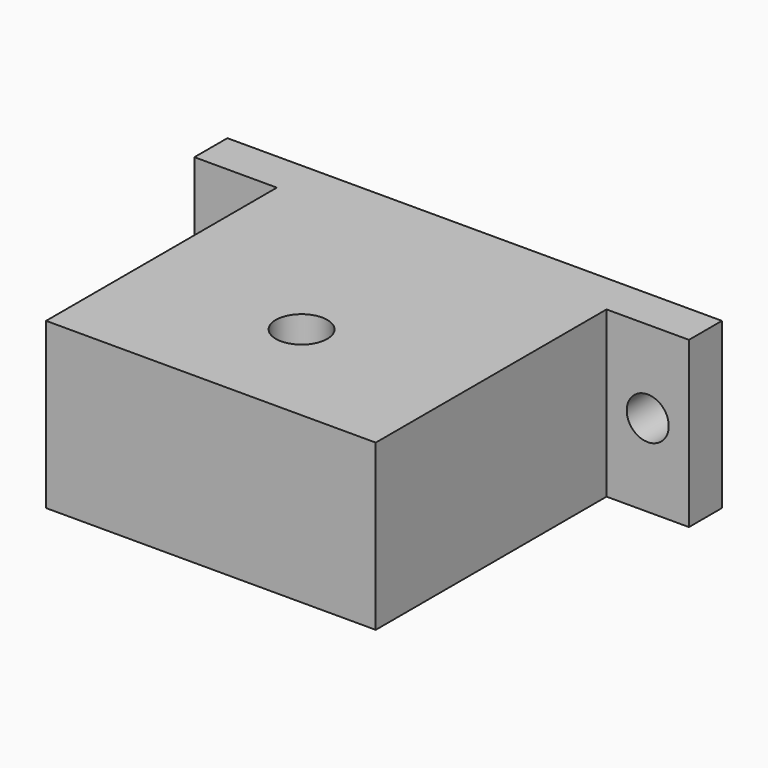
from build123d import *

# Parameters (mm, degrees)
F1_DEPTH = 25.4
F4_R     = 3.2385
F5_DEPTH = 25.4
F3_R     = 3.2385
F6_DEPTH = 25.4
F8_D     = 7.9375


with BuildPart() as f1:
    # F0 (on Top) → F1 (new body)
    with BuildSketch(Plane.XY):
        Polygon((76.2, 0), (0, 0), (0, -6.35), (12.7030108124, -6.35), (12.7030108124, -50.8), (63.5, -50.8), (63.5, -6.35), (76.2, -6.35), align=None)
    extrude(amount=F1_DEPTH)

    # F4 (on face) → F5 (cut)
    with BuildSketch(Plane.XZ.offset(6.35)):
        with Locations((6.35, 12.7)):
            Circle(F4_R)
    extrude(amount=-F5_DEPTH, mode=Mode.SUBTRACT)

    # F3 (on face) → F6 (cut)
    with BuildSketch(Plane.XZ.offset(6.35)):
        with Locations((69.85, 12.7)):
            Circle(F3_R)
    extrude(amount=-F6_DEPTH, mode=Mode.SUBTRACT)

    # F8 (through all)
    with Locations(Plane.XY.offset(25.4)):
        with Locations((38.1, -33.3375)):
            Hole(F8_D / 2)


solid = f1.part
